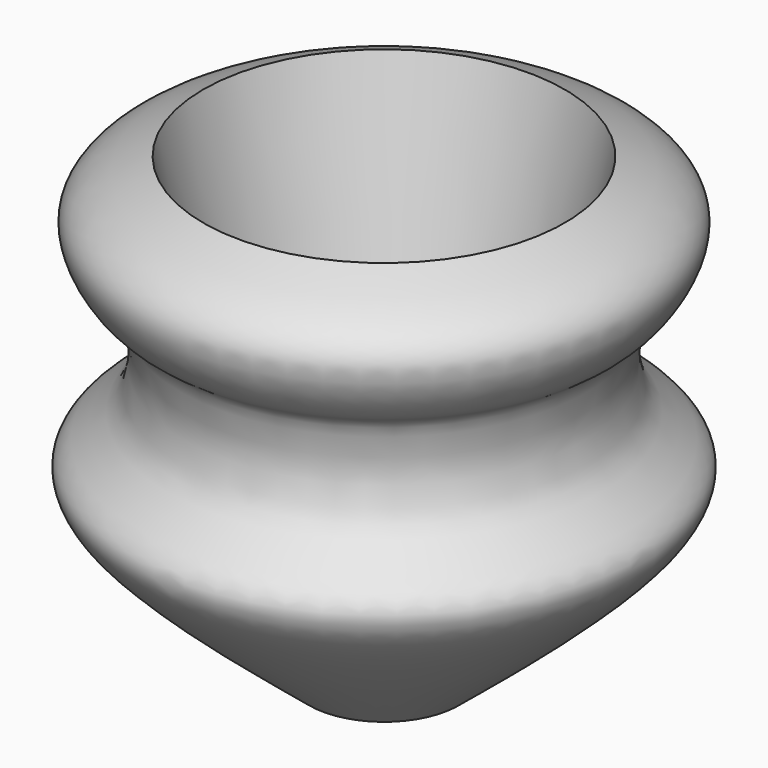
from build123d import *


with BuildPart() as f1:
    # F0 (on Front) → F1 (revolve)
    with BuildSketch(Plane.XZ):
        with BuildLine():
            Line((-11.8686351925, -39.294809103), (-28.5488814116, 33.2001037896))
            add(Edge.make_bspline(
                [(-28.5488814116, 33.2001037896), (-34.0102579646, 30.9621361129), (-44.1871381631, 26.7918452142), (-35.8335251764, 14.3971395052), (-32.249224144, 14.0090290197), (-29.5379689798, -1.9903272379), (-44.8206393551, -7.9782241045), (-33.6774762199, -21.3295967875), (-20.1433797759, -32.478420139), (-11.8686351925, -39.294809103)],
                knots=[0, 0, 0, 0, 0.1513867228, 0.2820982085, 0.3561662235, 0.5007617218, 0.6392551566, 0.7794406556, 1, 1, 1, 1], degree=3))
        make_face()
    revolve(axis=Axis((0, 0, 14.6754086018), (0, 0, 1)))


solid = f1.part
